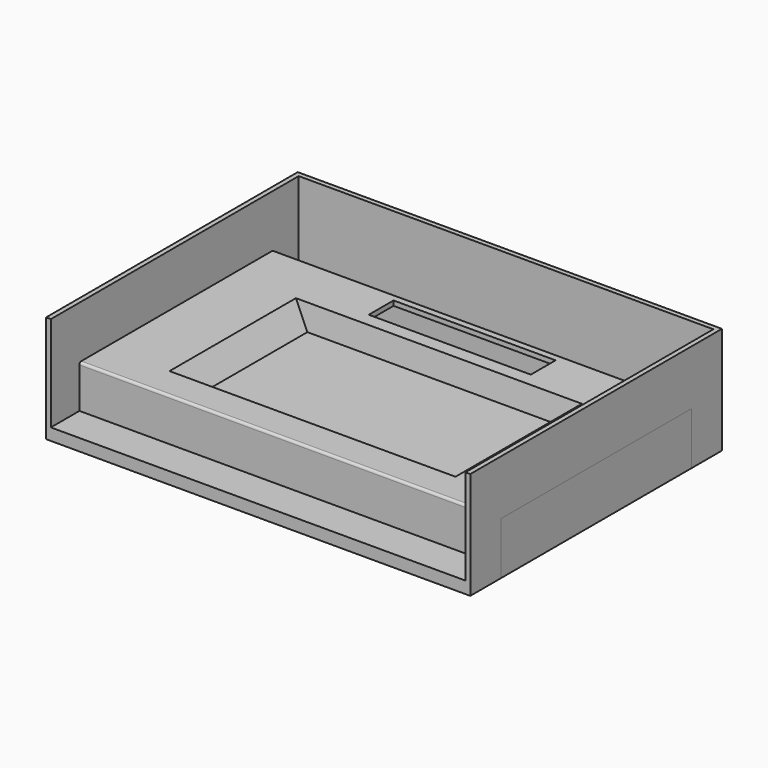
from build123d import *

# Parameters (mm, degrees)
SKETCH_W        = 178
SKETCH_H        = 132
PAD_DEPTH       = 45
SKETCH001_W     = 174
SKETCH001_H     = 130
POCKET_DEPTH    = 40
PAD001_DEPTH    = 23
FILLET_R        = 1
POCKET001_DEPTH = 21
SKETCH004_W     = 120
SKETCH004_H     = 66.8
POCKET002_DEPTH = 5
SKETCH005_W     = 68
SKETCH005_H     = 13
POCKET003_DEPTH = 5
SKETCH006_W     = 120
SKETCH006_H     = 66.8
PAD002_DEPTH    = 10
SKETCH007_W     = 108
SKETCH007_H     = 64.8
POCKET004_DEPTH = 11
POCKET005_DEPTH = 64.8
SKETCH009_W     = 120
SKETCH009_H     = 1
SKETCH009_H_2   = 8
PAD003_DEPTH    = 8
CHAMFER_SIZE2   = 9.9
CHAMFER_SIZE    = 1.5


with BuildPart() as screen_base:
    # Sketch → Pad (new body)
    with BuildSketch(Plane.XY):
        Rectangle(SKETCH_W, SKETCH_H)
    extrude(amount=PAD_DEPTH)

    # Sketch001 (on Face6 of Pad) → Pocket (cut)
    with BuildSketch(Plane.XY.offset(45)):
        with Locations((0, -1)):
            Rectangle(SKETCH001_W, SKETCH001_H)
    extrude(amount=-POCKET_DEPTH, mode=Mode.SUBTRACT)


with BuildPart() as screen_panel:
    # Sketch002 → Pad001 (new body)
    with BuildSketch(Plane.XY):
        with BuildLine():
            Line((-89, 50), (-89, -50))
            ThreePointArc((-89, -50), (-88.7071067812, -50.7071067812), (-88, -51))
            Line((-88, -51), (88, -51))
            ThreePointArc((88, -51), (88.7071067812, -50.7071067812), (89, -50))
            Line((89, 50), (89, -50))
            ThreePointArc((89, 50), (88.7071067812, 50.7071067812), (88, 51))
            Line((-88, 51), (88, 51))
            ThreePointArc((-88, 51), (-88.7071067812, 50.7071067812), (-89, 50))
        make_face()
    extrude(amount=PAD001_DEPTH)

    # Fillet
    fillet_edges = [screen_panel.edges().sort_by_distance(p)[0] for p in [
        (-89, 0, 23),
    ]]
    fillet(fillet_edges, radius=FILLET_R)

    # Sketch003 (on Face4 of Fillet) → Pocket001 (cut)
    with BuildSketch(Plane(origin=(0, 0, 0), x_dir=(1, 0, 0), z_dir=(0, 0, -1))):
        with BuildLine():
            Line((-87, -48), (-87, 48))
            ThreePointArc((-86, 49), (-86.7071067812, 48.7071067812), (-87, 48))
            Line((-86, 49), (86, 49))
            ThreePointArc((87, 48), (86.7071067812, 48.7071067812), (86, 49))
            Line((87, 48), (87, -48))
            ThreePointArc((86, -49), (86.7071067812, -48.7071067812), (87, -48))
            Line((86, -49), (-86, -49))
            ThreePointArc((-87, -48), (-86.7071067812, -48.7071067812), (-86, -49))
        make_face()
    extrude(amount=-POCKET001_DEPTH, mode=Mode.SUBTRACT)

    # Sketch004 (on Face22 of Pocket001) → Pocket002 (cut)
    with BuildSketch(Plane.XY.offset(23)):
        with Locations((0, -4.1)):
            Rectangle(SKETCH004_W, SKETCH004_H)
    extrude(amount=-POCKET002_DEPTH, mode=Mode.SUBTRACT)

    # Sketch005 (on Face22 of Pocket002) → Pocket003 (cut)
    with BuildSketch(Plane.XY.offset(23)):
        with Locations((0, 41)):
            Rectangle(SKETCH005_W, SKETCH005_H)
    extrude(amount=-POCKET003_DEPTH, mode=Mode.SUBTRACT)

    # Sketch006 (on Face22 of Pocket003) → Pad002 (join)
    with BuildSketch(Plane.XY.offset(23)):
        with Locations((0, -4.1)):
            Rectangle(SKETCH006_W, SKETCH006_H)
    extrude(amount=-PAD002_DEPTH)

    # Sketch007 (on Face28 of Pad002) → Pocket004 (cut)
    with BuildSketch(Plane.XY.offset(23)):
        with Locations((0, -5.1)):
            Rectangle(SKETCH007_W, SKETCH007_H)
    extrude(amount=-POCKET004_DEPTH, mode=Mode.SUBTRACT)

    # Sketch008 (on Face40 of Pocket004) → Pocket005 (cut)
    with BuildSketch(Plane.XZ.offset(-27.3)):
        Polygon((-60, 23), (-54, 23), (-54, 13), align=None)
        Polygon((54, 23), (60, 23), (54, 13), align=None)
    extrude(amount=POCKET005_DEPTH, mode=Mode.SUBTRACT)

    # Sketch009 (on Face27 of Pocket005) → Pad003 (join)
    with BuildSketch(Plane(origin=(0, 0, 21), x_dir=(1, 0, 0), z_dir=(0, 0, -1))):
        with Locations((0, -29.8)):
            Rectangle(SKETCH009_W, SKETCH009_H)
        with Locations((0, 41.5)):
            Rectangle(SKETCH009_W, SKETCH009_H_2)
    extrude(amount=PAD003_DEPTH)

    # Chamfer
    chamfer_edges = [screen_panel.edges().sort_by_distance(p)[0] for p in [
        (0, 27.3, 23),
        (57, 27.3, 23),
        (-57, 27.3, 23),
    ]]
    chamfer_side = screen_panel.faces().sort_by_distance((0, 28.3, 23))[0]
    chamfer(chamfer_edges, length=CHAMFER_SIZE, length2=CHAMFER_SIZE2, reference=chamfer_side)


solid = Compound([screen_base.part, screen_panel.part])
